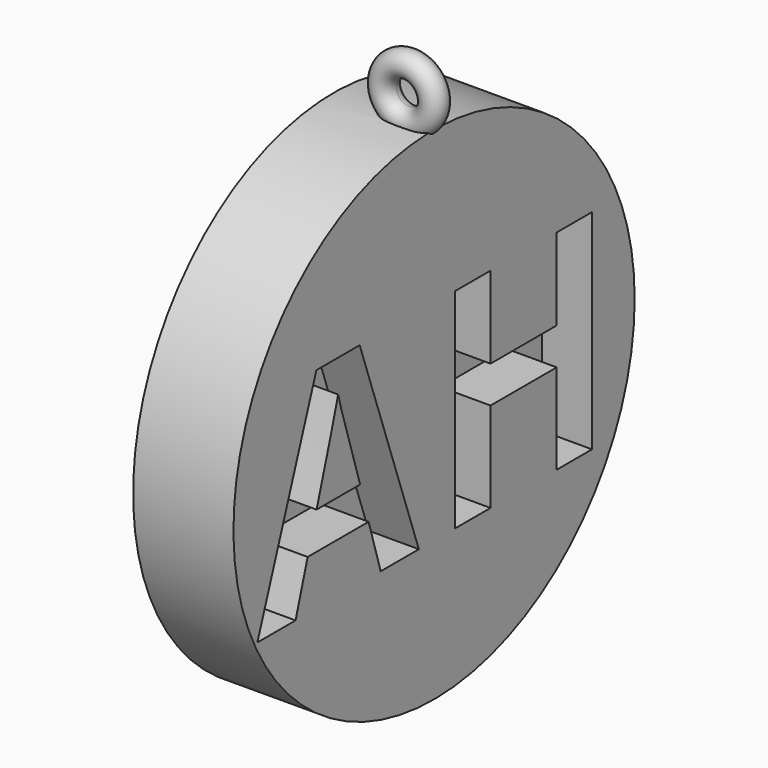
from build123d import *

# Parameters (mm, degrees)
F1_R     = 31.75
F2_DEPTH = 6.35
F0_R     = 31.75
F3_DEPTH = 6.35
F4_DEPTH = 6.35


with BuildPart() as f2:
    # F1 (on Right) → F2 (new body)
    with BuildSketch(Plane.YZ):
        Circle(F1_R)
        Polygon((-2.4019205729, -14.036842106), (-8.4443424479, -14.036842106), (-10.3600911458, -7.7397587727), (-20.0025, -7.7397587727), (-21.9182486979, -14.036842106), (-27.9606705729, -14.036842106), (-18.6250130208, 12.5174026857), (-11.7723046875, 12.5174026857), align=None, mode=Mode.SUBTRACT)
        Polygon((25.0025882936, 12.4073878214), (25.0025882936, -14.0424445271), (19.4104372652, -14.0424445271), (19.4104372652, -2.6265834216), (8.9381792835, -2.6265834216), (8.9381792835, -14.0424445271), (3.3286613264, -14.0424445271), (3.3286613264, 12.4073878214), (8.9381792835, 12.4073878214), (8.9381792835, 2.0393314117), (19.4104372652, 2.0393314117), (19.4104372652, 12.4073878214), align=None, mode=Mode.SUBTRACT)
    extrude(amount=F2_DEPTH)

    # F0 (on Right) → F3 (join)
    with BuildSketch(Plane.YZ):
        Circle(F0_R)
    extrude(amount=-F3_DEPTH)

    # F1 (on Right) → F4 (join)
    with BuildSketch(Plane.YZ):
        with BuildLine():
            Line((-18.5902864583, -3.0400973143), (-11.7028515625, -3.0400973143))
            add(Edge.make_bspline(
                [(-11.7028515625, -3.0400973143), (-14.3594335937, 5.5142125815), (-14.6951236979, 6.6370381023)],
                knots=[0, 0, 0, 1, 1, 1], degree=2))
            add(Edge.make_bspline(
                [(-14.6951236979, 6.6370381023), (-15.0308138021, 7.7598636232), (-15.1755078125, 8.4080927898)],
                knots=[0, 0, 0, 1, 1, 1], degree=2))
            add(Edge.make_bspline(
                [(-15.1755078125, 8.4080927898), (-15.7716471354, 6.0929886232), (-18.5902864583, -3.0400973143)],
                knots=[0, 0, 0, 1, 1, 1], degree=2))
        make_face()
    extrude(amount=F4_DEPTH)

    # F6 (on offset) → F7 (revolve)
    with BuildSketch(Plane.YZ.offset(3.175)):
        with BuildLine():
            ThreePointArc((0, 33.324831301), (-1.1225320151, 30.6147992858), (1.5875, 31.737331301))
            ThreePointArc((1.5875, 31.737331301), (1.1225320151, 32.8598633161), (0, 33.324831301))
        make_face()
    revolve(axis=Axis((3.175, -10.2093983442, 34.912331301), (0, -1, 0)))


solid = f2.part
